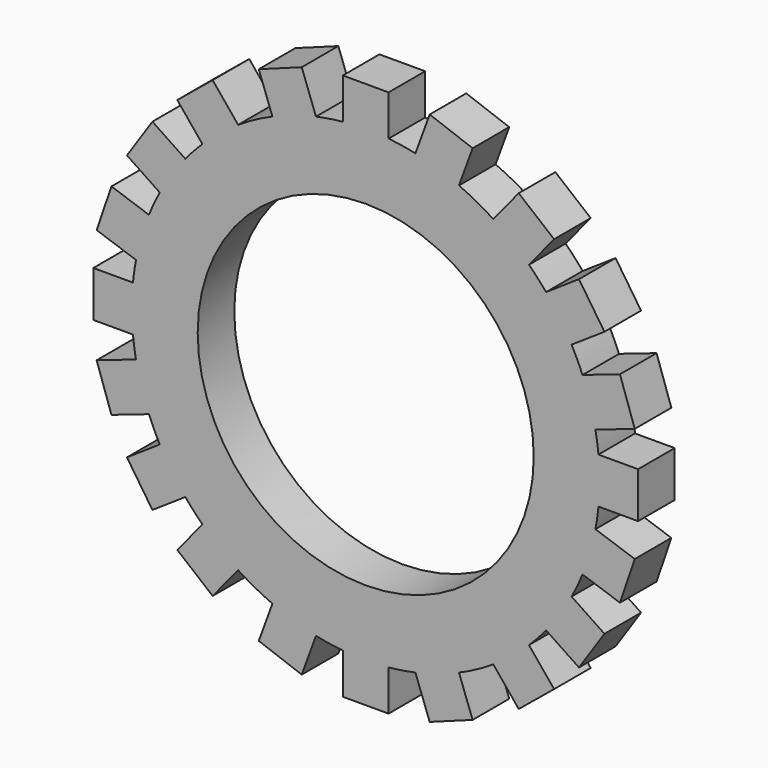
from build123d import *

# Parameters (mm, degrees)
F1_DEPTH = 12.7
F2_R     = 46.63803
F3_DEPTH = 25.4


with BuildPart() as f1:
    # F0 (on Front) → F1 (new body)
    with BuildSketch(Plane.XZ):
        with BuildLine():
            ThreePointArc((-63.765545, 12.165316), (-64.250755, 9.267153), (-64.604312, 6.35))
            Line((-64.604312, 6.35), (-75.607494, 6.35))
            Line((-75.607494, 6.35), (-75.607494, 0))
            Line((-75.607494, 0), (-75.607494, -6.35))
            Line((-75.607494, -6.35), (-64.604312, -6.35))
            ThreePointArc((-64.604312, -6.35), (-64.250755, -9.267153), (-63.765545, -12.165316))
            Line((-63.765545, -12.165316), (-74.686304, -15.897153))
            Line((-74.686304, -15.897153), (-70.579622, -27.914854))
            Line((-70.579622, -27.914854), (-60.172292, -24.358467))
            ThreePointArc((-60.172292, -24.358467), (-58.750975, -27.610913), (-57.154014, -30.780811))
            Line((-57.154014, -30.780811), (-66.276509, -36.902763))
            Line((-66.276509, -36.902763), (-59.199606, -47.448258))
            Line((-59.199606, -47.448258), (-50.067208, -41.31966))
            ThreePointArc((-50.067208, -41.31966), (-47.767053, -43.958483), (-45.327995, -46.469479))
            Line((-45.327995, -46.469479), (-52.3023, -54.973564))
            Line((-52.3023, -54.973564), (-42.48234, -63.027035))
            Line((-42.48234, -63.027035), (-35.412164, -54.40605))
            ThreePointArc((-35.412164, -54.40605), (-30.761411, -57.164458), (-25.897226, -59.526241))
            Line((-25.897226, -59.526241), (-29.681084, -69.853042))
            Line((-29.681084, -69.853042), (-17.756371, -74.222393))
            Line((-17.756371, -74.222393), (-13.802402, -63.431328))
            ThreePointArc((-13.802402, -63.431328), (-10.093255, -64.126171), (-6.35, -64.604312))
            Line((-6.35, -64.604312), (-6.35, -75.913835))
            Line((-6.35, -75.913835), (0, -75.913835))
            Line((0, -75.913835), (6.35, -75.913835))
            Line((6.35, -75.913835), (6.35, -64.604312))
            ThreePointArc((6.35, -64.604312), (10.093255, -64.126171), (13.802402, -63.431328))
            Line((13.802402, -63.431328), (17.756371, -74.222393))
            Line((17.756371, -74.222393), (29.681084, -69.853042))
            Line((29.681084, -69.853042), (25.897226, -59.526241))
            ThreePointArc((25.897226, -59.526241), (30.761411, -57.164458), (35.412164, -54.40605))
            Line((35.412164, -54.40605), (42.48234, -63.027035))
            Line((42.48234, -63.027035), (52.3023, -54.973564))
            Line((52.3023, -54.973564), (45.327995, -46.469479))
            ThreePointArc((45.327995, -46.469479), (47.767053, -43.958483), (50.067208, -41.31966))
            Line((50.067208, -41.31966), (59.199606, -47.448258))
            Line((59.199606, -47.448258), (66.276509, -36.902763))
            Line((66.276509, -36.902763), (57.154014, -30.780811))
            ThreePointArc((57.154014, -30.780811), (58.750975, -27.610913), (60.172292, -24.358467))
            Line((60.172292, -24.358467), (70.579622, -27.914854))
            Line((70.579622, -27.914854), (74.686304, -15.897153))
            Line((74.686304, -15.897153), (63.765545, -12.165316))
            ThreePointArc((63.765545, -12.165316), (64.250755, -9.267153), (64.604312, -6.35))
            Line((64.604312, -6.35), (75.607494, -6.35))
            Line((75.607494, -6.35), (75.607494, 0))
            Line((75.607494, 0), (75.607494, 6.35))
            Line((75.607494, 6.35), (64.604312, 6.35))
            ThreePointArc((64.604312, 6.35), (64.250755, 9.267153), (63.765545, 12.165316))
            Line((63.765545, 12.165316), (74.686304, 15.897153))
            Line((74.686304, 15.897153), (70.579622, 27.914854))
            Line((70.579622, 27.914854), (60.172292, 24.358467))
            ThreePointArc((60.172292, 24.358467), (58.750975, 27.610913), (57.154014, 30.780811))
            Line((57.154014, 30.780811), (66.276509, 36.902763))
            Line((66.276509, 36.902763), (59.199606, 47.448258))
            Line((59.199606, 47.448258), (50.067208, 41.31966))
            ThreePointArc((50.067208, 41.31966), (47.767053, 43.958483), (45.327995, 46.469479))
            Line((45.327995, 46.469479), (52.3023, 54.973564))
            Line((52.3023, 54.973564), (42.48234, 63.027035))
            Line((42.48234, 63.027035), (35.412164, 54.40605))
            ThreePointArc((35.412164, 54.40605), (30.761411, 57.164458), (25.897226, 59.526241))
            Line((25.897226, 59.526241), (29.681084, 69.853042))
            Line((29.681084, 69.853042), (17.756371, 74.222393))
            Line((17.756371, 74.222393), (13.802402, 63.431328))
            ThreePointArc((13.802402, 63.431328), (10.093255, 64.126171), (6.35, 64.604312))
            Line((6.35, 64.604312), (6.35, 75.913835))
            Line((6.35, 75.913835), (0, 75.913835))
            Line((0, 75.913835), (-6.35, 75.913835))
            Line((-6.35, 75.913835), (-6.35, 64.604312))
            ThreePointArc((-6.35, 64.604312), (-10.093255, 64.126171), (-13.802402, 63.431328))
            Line((-13.802402, 63.431328), (-17.756371, 74.222393))
            Line((-17.756371, 74.222393), (-29.681084, 69.853042))
            Line((-29.681084, 69.853042), (-25.897226, 59.526241))
            ThreePointArc((-25.897226, 59.526241), (-30.761411, 57.164458), (-35.412164, 54.40605))
            Line((-35.412164, 54.40605), (-42.48234, 63.027035))
            Line((-42.48234, 63.027035), (-52.3023, 54.973564))
            Line((-52.3023, 54.973564), (-45.327995, 46.469479))
            ThreePointArc((-45.327995, 46.469479), (-47.767053, 43.958483), (-50.067208, 41.31966))
            Line((-50.067208, 41.31966), (-59.199606, 47.448258))
            Line((-59.199606, 47.448258), (-66.276509, 36.902763))
            Line((-66.276509, 36.902763), (-57.154014, 30.780811))
            ThreePointArc((-57.154014, 30.780811), (-58.750975, 27.610913), (-60.172292, 24.358467))
            Line((-60.172292, 24.358467), (-70.579622, 27.914854))
            Line((-70.579622, 27.914854), (-74.686304, 15.897153))
            Line((-74.686304, 15.897153), (-63.765545, 12.165316))
        make_face()
    extrude(amount=F1_DEPTH)

    # F2 (on face) → F3 (cut)
    with BuildSketch(Plane.XZ.offset(12.7)):
        Circle(F2_R)
    extrude(amount=-F3_DEPTH, mode=Mode.SUBTRACT)


solid = f1.part
